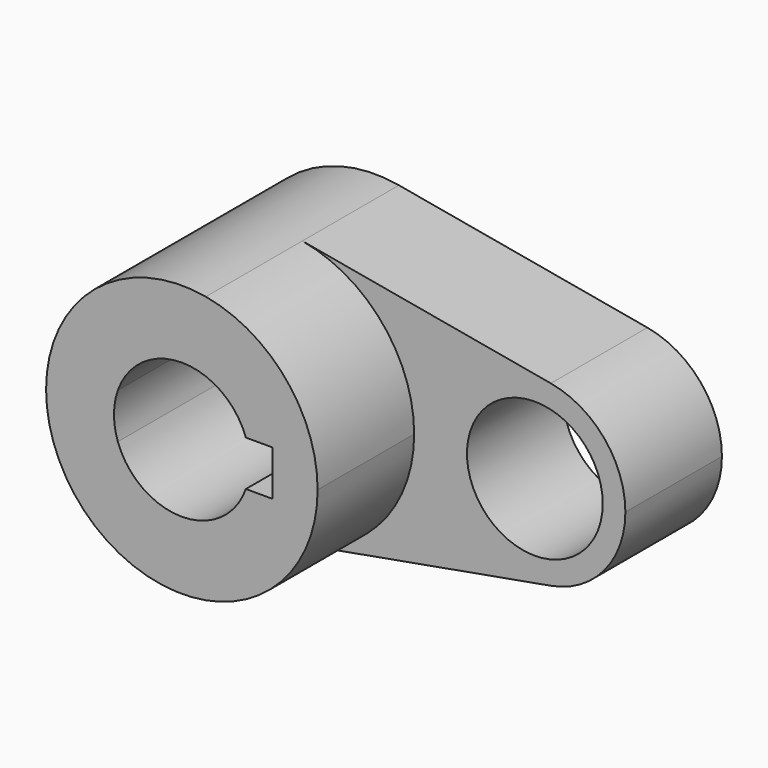
from build123d import *

# Parameters (mm, degrees)
F0_R     = 14.2875
F1_DEPTH = 25.4
F2_DEPTH = 50.8


with BuildPart() as f1:
    # F0 (on Front) → F1 (new body)
    with BuildSketch(Plane.XZ):
        with BuildLine():
            ThreePointArc((5.042647, -28.126541), (21.916025, -18.336262), (28.575, 0))
            ThreePointArc((28.575, 0), (21.916025, 18.336262), (5.042647, 28.126541))
            ThreePointArc((5.042647, 28.126541), (-28.575, 0), (5.042647, -28.126541))
        make_face()
        with BuildLine():
            ThreePointArc((-13.470384, 4.7625), (0, 14.2875), (13.470384, 4.7625))
            Line((13.470384, 4.7625), (19.05, 4.7625))
            Line((19.05, 4.7625), (19.05, -4.7625))
            Line((19.05, -4.7625), (13.470384, -4.7625))
            ThreePointArc((13.470384, -4.7625), (0, -14.2875), (-13.470384, -4.7625))
            Line((-13.470384, -4.7625), (-19.05, -4.7625))
            Line((-19.05, -4.7625), (-19.05, 4.7625))
            Line((-19.05, 4.7625), (-13.470384, 4.7625))
        make_face(mode=Mode.SUBTRACT)
        with BuildLine():
            ThreePointArc((5.042647, 28.126541), (21.916025, 18.336262), (28.575, 0))
            ThreePointArc((28.575, 0), (21.916025, -18.336262), (5.042647, -28.126541))
            Line((5.042647, -28.126541), (57.336765, -18.751028))
            ThreePointArc((57.336765, -18.751028), (34.925, 0), (57.336765, 18.751028))
            Line((57.336765, 18.751028), (5.042647, 28.126541))
        make_face()
        with BuildLine():
            ThreePointArc((73.025, 0), (68.585683, 12.224174), (57.336765, 18.751028))
            ThreePointArc((57.336765, 18.751028), (34.925, 0), (57.336765, -18.751028))
            ThreePointArc((57.336765, -18.751028), (68.585683, -12.224174), (73.025, 0))
        make_face()
        with Locations((53.975, 0)):
            Circle(F0_R, mode=Mode.SUBTRACT)
    extrude(amount=F1_DEPTH)

    # F0 (on Front) → F2 (join)
    with BuildSketch(Plane.XZ):
        with BuildLine():
            ThreePointArc((5.042647, -28.126541), (21.916025, -18.336262), (28.575, 0))
            ThreePointArc((28.575, 0), (21.916025, 18.336262), (5.042647, 28.126541))
            ThreePointArc((5.042647, 28.126541), (-28.575, 0), (5.042647, -28.126541))
        make_face()
        with BuildLine():
            ThreePointArc((-13.470384, 4.7625), (0, 14.2875), (13.470384, 4.7625))
            Line((13.470384, 4.7625), (19.05, 4.7625))
            Line((19.05, 4.7625), (19.05, -4.7625))
            Line((19.05, -4.7625), (13.470384, -4.7625))
            ThreePointArc((13.470384, -4.7625), (0, -14.2875), (-13.470384, -4.7625))
            Line((-13.470384, -4.7625), (-19.05, -4.7625))
            Line((-19.05, -4.7625), (-19.05, 4.7625))
            Line((-19.05, 4.7625), (-13.470384, 4.7625))
        make_face(mode=Mode.SUBTRACT)
        with BuildLine():
            ThreePointArc((-13.470384, -4.7625), (-14.2875, 0), (-13.470384, 4.7625))
            Line((-13.470384, 4.7625), (-19.05, 4.7625))
            Line((-19.05, 4.7625), (-19.05, -4.7625))
            Line((-19.05, -4.7625), (-13.470384, -4.7625))
        make_face()
    extrude(amount=F2_DEPTH)


solid = f1.part
